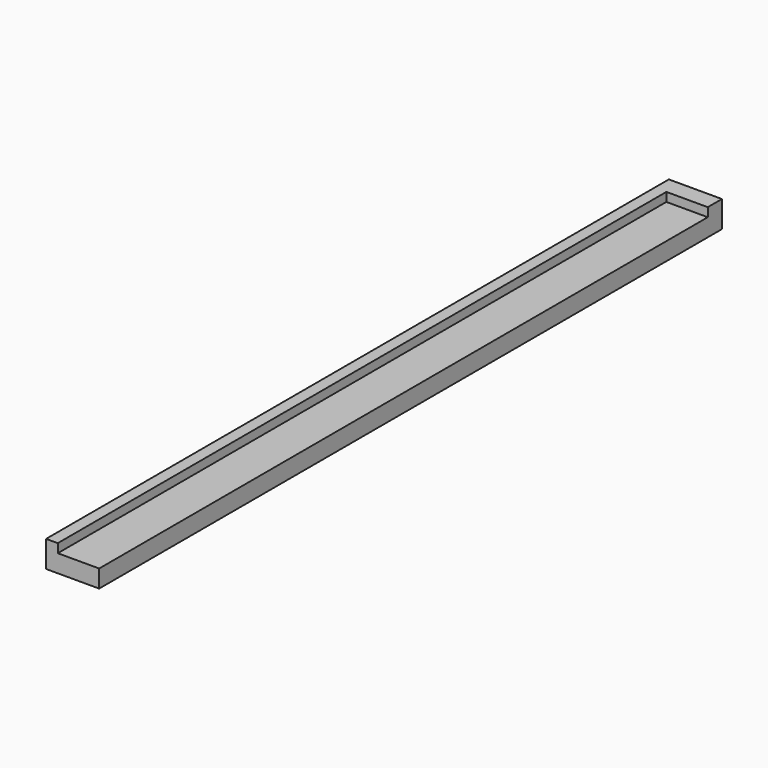
from build123d import *

# Parameters (mm, degrees)
F0_W     = 1.04775
F0_H     = 1.5875
F0_W_2   = 3.71475
F0_H_2   = 68.2625
F1_DEPTH = 2.38125
F2_DEPTH = 1.5875


with BuildPart() as f1:
    # F0 (on Top) → F1 (new body)
    with BuildSketch(Plane.XY):
        with Locations((-29.460825, 52.182912)):
            Rectangle(F0_W, F0_H)
        with Locations((-27.079575, 52.182912)):
            Rectangle(F0_W_2, F0_H)
        with Locations((-29.460825, 17.257912)):
            Rectangle(F0_W, F0_H_2)
    extrude(amount=F1_DEPTH)

    # F0 (on Top) → F2 (join)
    with BuildSketch(Plane.XY):
        with Locations((-27.079575, 17.257912)):
            Rectangle(F0_W_2, F0_H_2)
    extrude(amount=F2_DEPTH)


solid = f1.part
